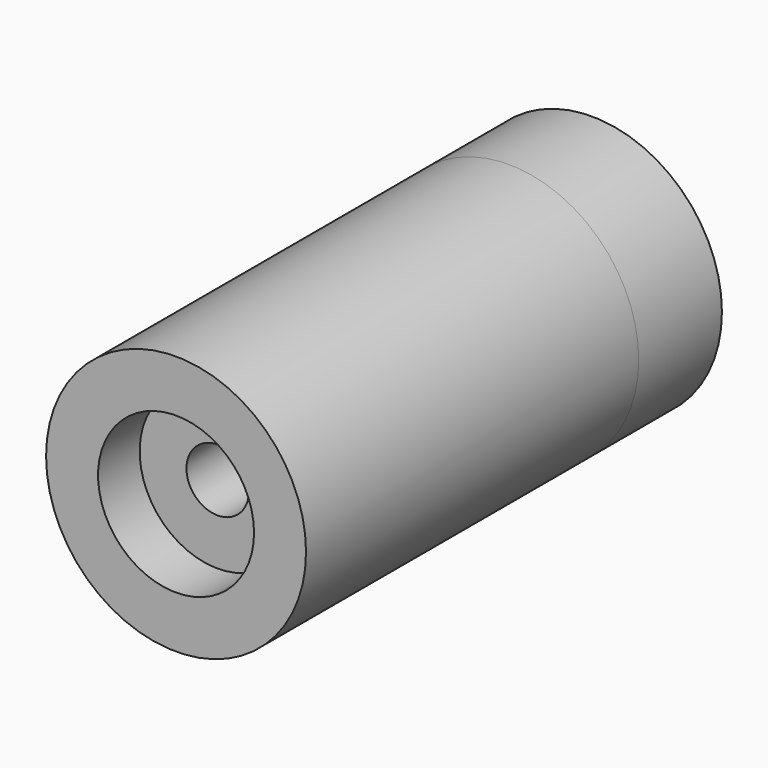
from build123d import *

# Parameters (mm, degrees)
F0_R     = 25
F0_R_2   = 6
F1_DEPTH = 70
F2_R     = 25
F2_R_2   = 15
F3_DEPTH = 10
F4_R     = 25
F4_R_2   = 15
F5_DEPTH = 20
F6_SIZE  = 7


with BuildPart() as f1:
    # F0 (on Front) → F1 (new body)
    with BuildSketch(Plane.XZ):
        Circle(F0_R)
        Circle(F0_R_2, mode=Mode.SUBTRACT)
    extrude(amount=F1_DEPTH)

    # F2 (on face) → F3 (join)
    with BuildSketch(Plane.XZ.offset(70)):
        Circle(F2_R)
        Circle(F2_R_2, mode=Mode.SUBTRACT)
    extrude(amount=F3_DEPTH)

    # F4 (on face) → F5 (join)
    with BuildSketch(Plane(origin=(0, 0, 0), x_dir=(-1, 0, 0), z_dir=(0, 1, 0))):
        Circle(F4_R)
        Circle(F4_R_2, mode=Mode.SUBTRACT)
    extrude(amount=F5_DEPTH)

    # F6
    f6_edges = [f1.edges().sort_by_distance(p)[0] for p in [
        (15, 20, 0),
    ]]
    chamfer(f6_edges, length=F6_SIZE)


solid = f1.part
